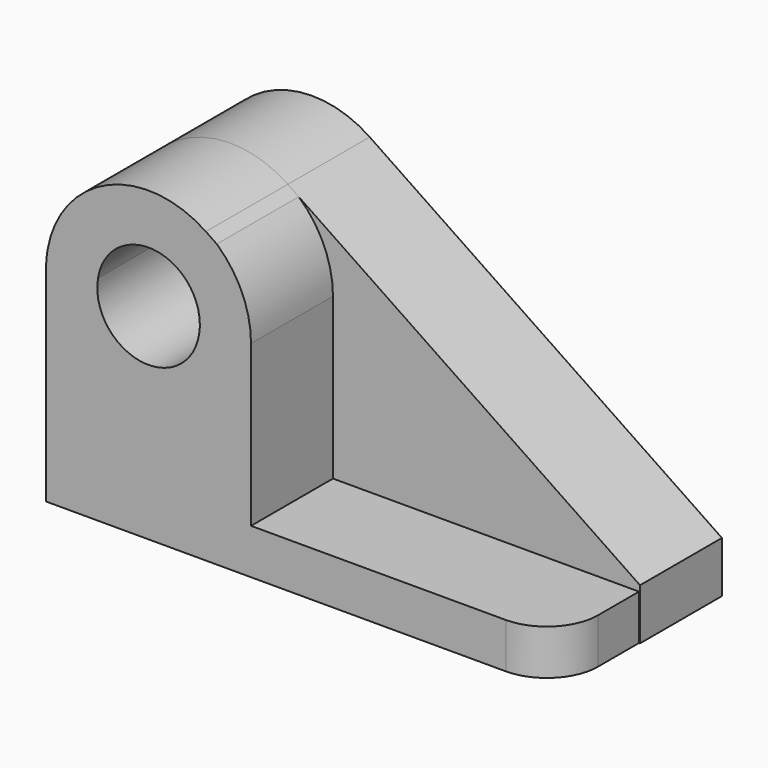
from build123d import *

# Parameters (mm, degrees)
F0_R     = 12.7
F1_DEPTH = 25.4
F3_DEPTH = 25.4
F4_R     = 12.7


with BuildPart() as f1:
    # F0 (on Front) → F1 (new body)
    with BuildSketch(Plane.XZ):
        with BuildLine():
            Line((60.995375, -7.947213), (-26.366752, 51.187115))
            ThreePointArc((-26.366752, 51.187115), (-52.510884, 52.589386), (-66.004625, 30.152787))
            Line((-66.004625, 30.152787), (-66.004625, -20.647213))
            Line((-66.004625, -20.647213), (60.995375, -20.647213))
            Line((60.995375, -20.647213), (60.995375, -7.947213))
        make_face()
        with Locations((-40.604625, 30.152787)):
            Circle(F0_R, mode=Mode.SUBTRACT)
    extrude(amount=F1_DEPTH)

    # F2 (on face) → F3 (join)
    with BuildSketch(Plane.XZ.offset(25.4)):
        with BuildLine():
            Line((60.746003, -20.647213), (60.746003, -9.422782))
            Line((60.746003, -9.422782), (-15.164001, -9.422782))
            Line((-15.164001, -9.422782), (-15.164001, 30.397678))
            ThreePointArc((-15.164001, 30.397678), (-17.383882, 40.782384), (-23.655506, 49.351907))
            Line((-23.655506, 49.351907), (-26.366752, 51.187115))
            ThreePointArc((-26.366752, 51.187115), (-50.57153, 53.515595), (-65.641578, 34.431919))
            ThreePointArc((-65.641578, 34.431919), (-65.9137, 32.300039), (-66.004625, 30.152787))
            Line((-66.004625, 30.152787), (-66.004625, -20.647213))
            Line((-66.004625, -20.647213), (-65.891497, -20.647213))
            Line((-65.891497, -20.647213), (60.746003, -20.647213))
        make_face()
        with BuildLine():
            ThreePointArc((-53.112497, 32.353501), (-39.583159, 43.059745), (-27.864001, 30.397678))
            ThreePointArc((-27.864001, 30.397678), (-27.912124, 29.293135), (-28.056129, 28.196964))
            ThreePointArc((-28.056129, 28.196964), (-42.682993, 17.624005), (-53.112497, 32.353501))
        make_face(mode=Mode.SUBTRACT)
    extrude(amount=F3_DEPTH)

    # F4
    f4_edges = [f1.edges().sort_by_distance(p)[0] for p in [
        (60.746003, -50.8, -15.034997),
    ]]
    fillet(f4_edges, radius=F4_R)


solid = f1.part
